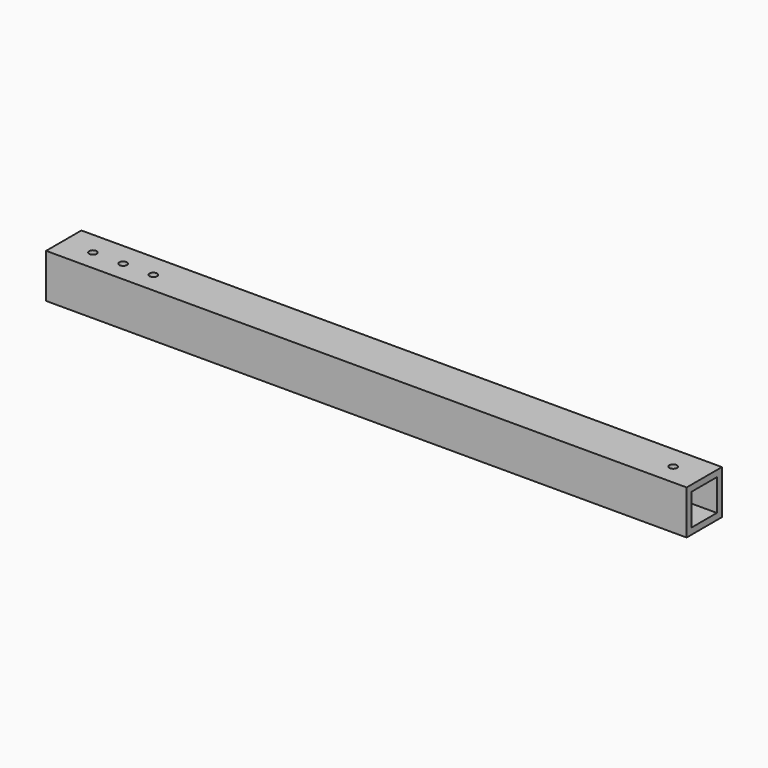
from build123d import *

# Parameters (mm, degrees)
F0_W     = 17.5
F0_H     = 17.5
F0_W_2   = 12.5
F0_H_2   = 12.5
F1_DEPTH = 254
F3_D     = 3


with BuildPart() as f1:
    # F0 (on Right) → F1 (new body)
    with BuildSketch(Plane.YZ):
        with Locations((-6.25, 6.25)):
            Rectangle(F0_W, F0_H)
        with Locations((-6.25, 6.25)):
            Rectangle(F0_W_2, F0_H_2, mode=Mode.SUBTRACT)
    extrude(amount=F1_DEPTH)

    # F3 (through all)
    with Locations(Plane.XY.offset(15)):
        with Locations((12, -6.828663), (24, -6.828663), (36, -6.828663), (242, -6.651512)):
            Hole(F3_D / 2)


solid = f1.part
